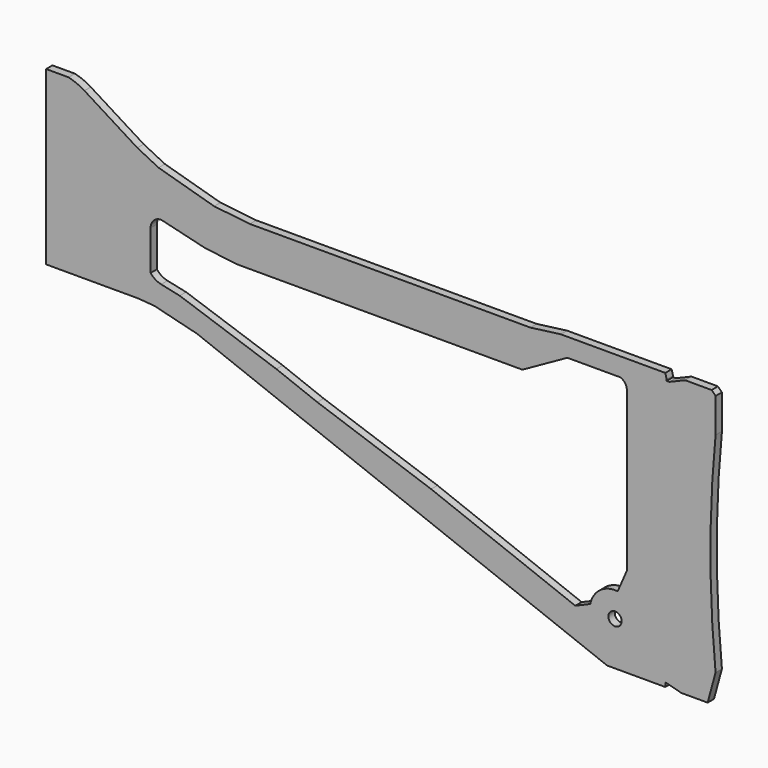
from build123d import *

# Parameters (mm, degrees)
F0_R     = 2.5
F1_DEPTH = 3


with BuildPart() as f1:
    # F0 (on Front) → F1 (new body)
    with BuildSketch(Plane.XZ):
        with BuildLine():
            Line((8.5, 0), (0, 0))
            Line((0, 0), (0, -65))
            Line((0, -65), (35, -65))
            Line((35, -65), (41, -65.5))
            Line((41, -65.5), (57, -69.5))
            Line((57, -69.5), (212, -129.5))
            Line((212, -129.5), (234, -129.5))
            Line((234, -129.5), (234, -128))
            Line((234, -128), (234.5, -128))
            Line((234.5, -128), (240, -129.5))
            Line((240, -129.5), (250, -129.5))
            Line((250, -129.5), (253, -118.5))
            ThreePointArc((253, -118.5), (251.054419, -79), (253, -39.5))
            Line((253, -39.5), (253, -26.5))
            Line((253, -26.5), (251.5, -25))
            Line((251.5, -25), (241.5, -25))
            Line((241.5, -25), (235.5, -27.5))
            Line((235.5, -27.5), (234.5, -27.5))
            Line((234.5, -27.5), (234.5, -27))
            Line((234.5, -27), (234, -25))
            Line((234, -25), (194.5, -25))
            Line((194.5, -25), (183, -26.5))
            Line((183, -26.5), (77, -26.5))
            Line((77, -26.5), (63.5, -25))
            Line((63.5, -25), (42.5, -19))
            Line((42.5, -19), (34.5, -15))
            Line((34.5, -15), (14.5, -2.5))
            ThreePointArc((14.5, -2.5), (11.60261, -1.003737), (8.5, 0))
        make_face()
        with Locations((215, -113)):
            Circle(F0_R, mode=Mode.SUBTRACT)
        with BuildLine():
            Line((77, -41.5), (87, -41.5))
            Line((87, -41.5), (113, -41.5))
            Line((113, -41.5), (138, -41.5))
            Line((138, -41.5), (180, -41.5))
            Line((180, -41.5), (197, -32))
            Line((197, -32), (217, -32))
            ThreePointArc((217, -32), (218.810814, -33.349419), (219.5, -35.5))
            Line((219.5, -35.5), (219.5, -95.5))
            Line((219.5, -95.5), (216, -103.5))
            ThreePointArc((216, -103.5), (209.345929, -105.300553), (205.636229, -111.110611))
            Line((205.636229, -111.110611), (200, -113.524611))
            Line((200, -113.524611), (145.5, -92.427837))
            Line((145.5, -92.427837), (102.5, -77.5))
            Line((102.5, -77.5), (87, -71.5))
            Line((87, -71.5), (50.5, -59))
            Line((50.5, -59), (43.5, -57.5))
            ThreePointArc((43.5, -57.5), (41.280596, -56.601046), (39.5, -55))
            Line((39.5, -55), (39.5, -40))
            ThreePointArc((39.5, -40), (40.671573, -37.171573), (43.5, -36))
            Line((43.5, -36), (60, -40))
            Line((60, -40), (72, -41.5))
            Line((72, -41.5), (77, -41.5))
        make_face(mode=Mode.SUBTRACT)
    extrude(amount=F1_DEPTH)


solid = f1.part
